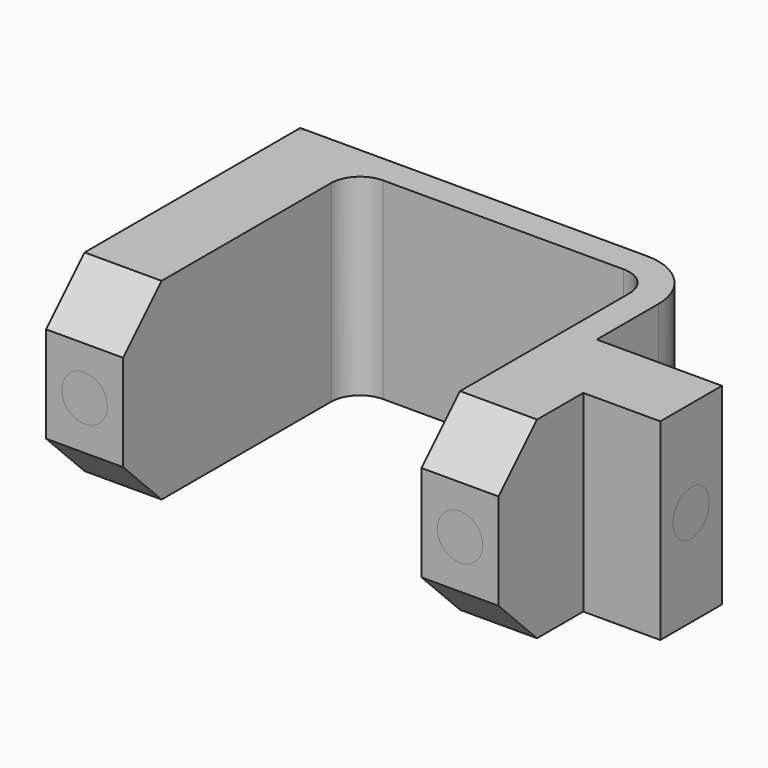
from build123d import *

# Parameters (mm, degrees)
PAD_DEPTH       = 20
FILLET_R        = 3
FILLET001_R     = 6
CHAMFER_SIZE    = 6
SKETCH002_R     = 1.36
POCKET_DEPTH    = 4
CHAMFER001_SIZE = 1
SKETCH003_R     = 1.36
POCKET001_DEPTH = 4
CHAMFER002_SIZE = 1
SKETCH004_R     = 1.36
POCKET002_DEPTH = 4
CHAMFER003_SIZE = 1
CHAMFER004_SIZE = 5
SKETCH005_R     = 1.36
POCKET003_DEPTH = 4
CHAMFER005_SIZE = 1
SKETCH006_W     = 6
SKETCH006_H     = 3
PAD001_DEPTH    = 6
SKETCH007_R     = 1.5
POCKET004_DEPTH = 14.501
FILLET002_R     = 1
FILLET003_R     = 1
FILLET004_R     = 1


with BuildPart() as fillet001:
    # Sketch → Pad (new body)
    with BuildSketch(Plane.XY):
        Polygon((-19.528576, -13.349491), (-19.528576, 19.650509), (22.471424, 19.650509), (22.471424, 5.650509), (35.471424, 5.650509), (35.471424, -2.349491), (27.471424, -2.349491), (27.471424, -13.349491), (19.471424, -13.349491), (19.471424, 16.650509), (-11.528576, 16.650509), (-11.528576, -13.349491), align=None)
    extrude(amount=PAD_DEPTH)

    # Fillet
    fillet_edges = [fillet001.edges().sort_by_distance(p)[0] for p in [
        (-11.528576, 16.650509, 10),
        (19.471424, 16.650509, 10),
    ]]
    fillet(fillet_edges, radius=FILLET_R)

    # Fillet001
    fillet001_edges = [fillet001.edges().sort_by_distance(p)[0] for p in [
        (22.471424, 19.650509, 10),
    ]]
    fillet(fillet001_edges, radius=FILLET001_R)


with BuildPart() as chamfer_body:
    # Chamfer base: copy of Fillet001
    add(fillet001.part)

    # Chamfer
    chamfer_edges = [chamfer_body.edges().sort_by_distance(p)[0] for p in [
        (-15.528576, -13.349491, 20),
        (-15.528576, -13.349491, 0),
        (23.471424, -13.349491, 20),
        (23.471424, -13.349491, 0),
    ]]
    chamfer(chamfer_edges, length=CHAMFER_SIZE)


with BuildPart() as obj1:
    # Pocket base: copy of Fillet001
    add(fillet001.part)

    # Sketch002 → Pocket (cut)
    with BuildSketch(Plane.YZ.offset(35.471424)):
        with Locations((1.650509, 10)):
            Circle(SKETCH002_R)
    extrude(amount=-POCKET_DEPTH, mode=Mode.SUBTRACT)

    # Chamfer001
    chamfer001_edges = [obj1.edges().sort_by_distance(p)[0] for p in [
        (35.471424, 0.290509, 10),
    ]]
    chamfer(chamfer001_edges, length=CHAMFER001_SIZE)

    # Sketch003 → Pocket001 (cut)
    with BuildSketch(Plane.XZ.offset(13.349491)):
        with Locations((-15.528576, 10)):
            Circle(SKETCH003_R)
    extrude(amount=-POCKET001_DEPTH, mode=Mode.SUBTRACT)

    # Chamfer002
    chamfer002_edges = [obj1.edges().sort_by_distance(p)[0] for p in [
        (-16.888576, -13.349491, 10),
    ]]
    chamfer(chamfer002_edges, length=CHAMFER002_SIZE)

    # Sketch004 → Pocket002 (cut)
    with BuildSketch(Plane.XZ.offset(13.349491)):
        with Locations((23.471424, 10)):
            Circle(SKETCH004_R)
    extrude(amount=-POCKET002_DEPTH, mode=Mode.SUBTRACT)

    # Chamfer003
    chamfer003_edges = [obj1.edges().sort_by_distance(p)[0] for p in [
        (22.111424, -13.349491, 10),
    ]]
    chamfer(chamfer003_edges, length=CHAMFER003_SIZE)

    # Chamfer004
    chamfer004_edges = [obj1.edges().sort_by_distance(p)[0] for p in [
        (-15.528576, -13.349491, 20),
        (-15.528576, -13.349491, 0),
        (23.471424, -13.349491, 20),
        (23.471424, -13.349491, 0),
    ]]
    chamfer(chamfer004_edges, length=CHAMFER004_SIZE)

    # Sketch005 → Pocket003 (cut)
    with BuildSketch(Plane(origin=(0, 19.650509, 0), x_dir=(-1, 0, 0), z_dir=(0, 1, 0))):
        with Locations((15.528576, 10)):
            Circle(SKETCH005_R)
    extrude(amount=-POCKET003_DEPTH, mode=Mode.SUBTRACT)

    # Chamfer005
    chamfer005_edges = [obj1.edges().sort_by_distance(p)[0] for p in [
        (-14.168576, 19.650509, 10),
    ]]
    chamfer(chamfer005_edges, length=CHAMFER005_SIZE)

    # Sketch006 → Pad001 (new body)
    with BuildSketch(Plane(origin=(-19.528576, 0, 0), x_dir=(0, -1, 0), z_dir=(-1, 0, 0))):
        with Locations((-8.650509, 13)):
            Rectangle(SKETCH006_W, SKETCH006_H)
        with Locations((-8.650509, 7)):
            Rectangle(SKETCH006_W, SKETCH006_H)
    extrude(amount=PAD001_DEPTH)

    # Sketch007 → Pocket004 (cut, through all)
    with BuildSketch(Plane.XY.offset(14.5)):
        with Locations((-22.528576, 8.650509)):
            Circle(SKETCH007_R)
    extrude(amount=-POCKET004_DEPTH, mode=Mode.SUBTRACT)

    # Fillet002
    fillet002_edges = [obj1.edges().sort_by_distance(p)[0] for p in [
        (-19.528576, 8.650509, 5.5),
        (-19.528576, 8.650509, 14.5),
    ]]
    fillet(fillet002_edges, radius=FILLET002_R)

    # Fillet003
    fillet003_edges = [obj1.edges().sort_by_distance(p)[0] for p in [
        (-25.528576, 11.650509, 7),
        (-25.528576, 11.650509, 13),
        (-25.528576, 5.650509, 7),
        (-25.528576, 5.650509, 13),
    ]]
    fillet(fillet003_edges, radius=FILLET003_R)

    # Fillet004
    fillet004_edges = [obj1.edges().sort_by_distance(p)[0] for p in [
        (-19.528576, 19.650509, 10),
    ]]
    fillet(fillet004_edges, radius=FILLET004_R)


solid = Compound([chamfer_body.part, obj1.part])
